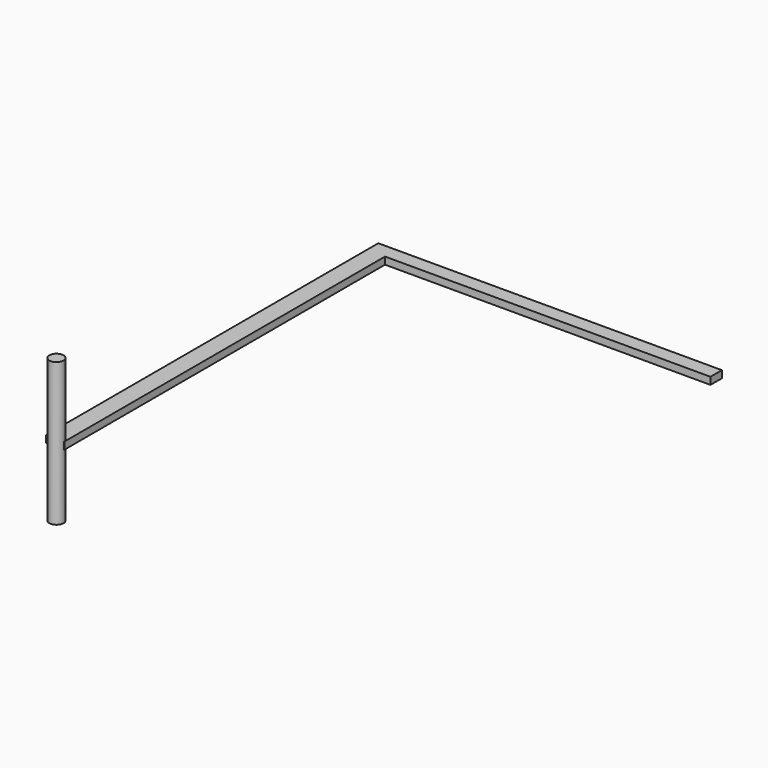
from build123d import *

# Parameters (mm, degrees)
F0_R     = 12.7
F1_DEPTH = 254
F2_W     = 711.2
F2_H     = 12.7
F3_DEPTH = 32.258
F4_W     = 609.6
F4_H     = 12.7
F5_DEPTH = 25.4


with BuildPart() as f1:
    # F0 (on Top) → F1 (new body)
    with BuildSketch(Plane.XY):
        with Locations((-12.7, 44.464361)):
            Circle(F0_R)
    extrude(amount=-F1_DEPTH)

    # F2 (on Right) → F3 (join)
    with BuildSketch(Plane.YZ):
        with Locations((401.540584, -133.65126)):
            Rectangle(F2_W, F2_H)
    extrude(amount=-F3_DEPTH)

    # F4 (on face) → F5 (join)
    with BuildSketch(Plane(origin=(0, 757.140584, 0), x_dir=(-1, 0, 0), z_dir=(0, 1, 0))):
        with Locations((-272.542, -133.65126)):
            Rectangle(F4_W, F4_H)
    extrude(amount=F5_DEPTH)


solid = f1.part
